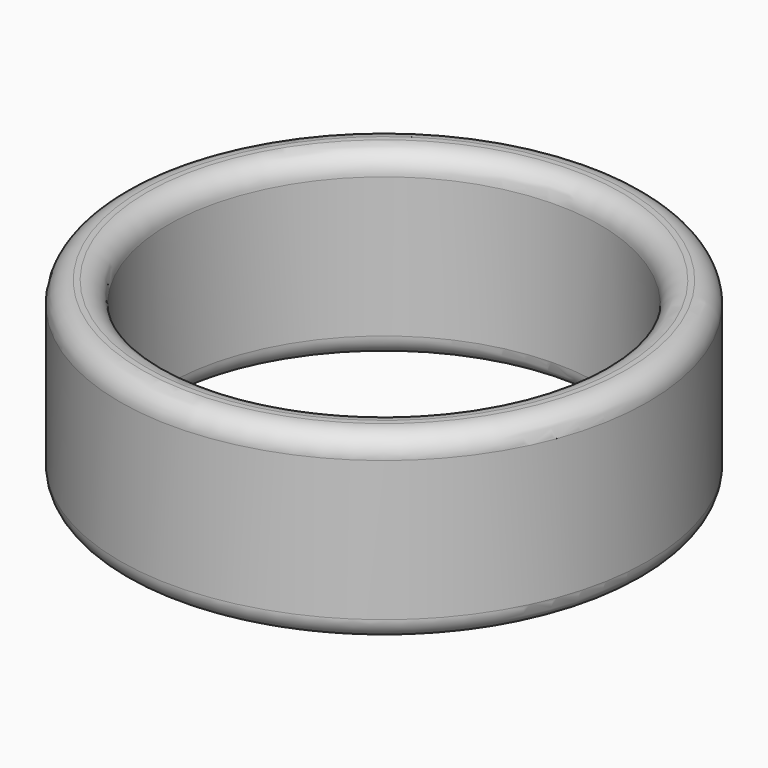
from build123d import *

# Parameters (mm, degrees)
F0_R     = 62.62304
F1_DEPTH = 43.373577
F2_R     = 53.368625
F3_DEPTH = 5.646907
F4_R     = 51.187799
F5_DEPTH = 64.743372
F6_R     = 5.08
F7_R     = 5.08
F8_R     = 5.08


with BuildPart() as f1:
    # F0 (on Top) → F1 (new body)
    with BuildSketch(Plane.XY):
        Circle(F0_R)
    extrude(amount=F1_DEPTH)

    # F2 (on face) → F3 (join)
    with BuildSketch(Plane(origin=(0, 0, 0), x_dir=(1, 0, 0), z_dir=(0, 0, -1))):
        Circle(F2_R)
    extrude(amount=-F3_DEPTH)

    # F4 (on face) → F5 (cut)
    with BuildSketch(Plane(origin=(0, 0, 0), x_dir=(1, 0, 0), z_dir=(0, 0, -1))):
        Circle(F4_R)
    extrude(amount=-F5_DEPTH, mode=Mode.SUBTRACT)

    # F6
    f6_edges = [f1.edges().sort_by_distance(p)[0] for p in [
        (-62.62304, 0, 43.373577),
    ]]
    fillet(f6_edges, radius=F6_R)

    # F7
    f7_edges = [f1.edges().sort_by_distance(p)[0] for p in [
        (-51.187799, 0, 0),
        (-51.187799, 0, 43.373577),
    ]]
    fillet(f7_edges, radius=F7_R)

    # F8
    f8_edges = [f1.edges().sort_by_distance(p)[0] for p in [
        (-62.62304, 0, 0),
    ]]
    fillet(f8_edges, radius=F8_R)


solid = f1.part
